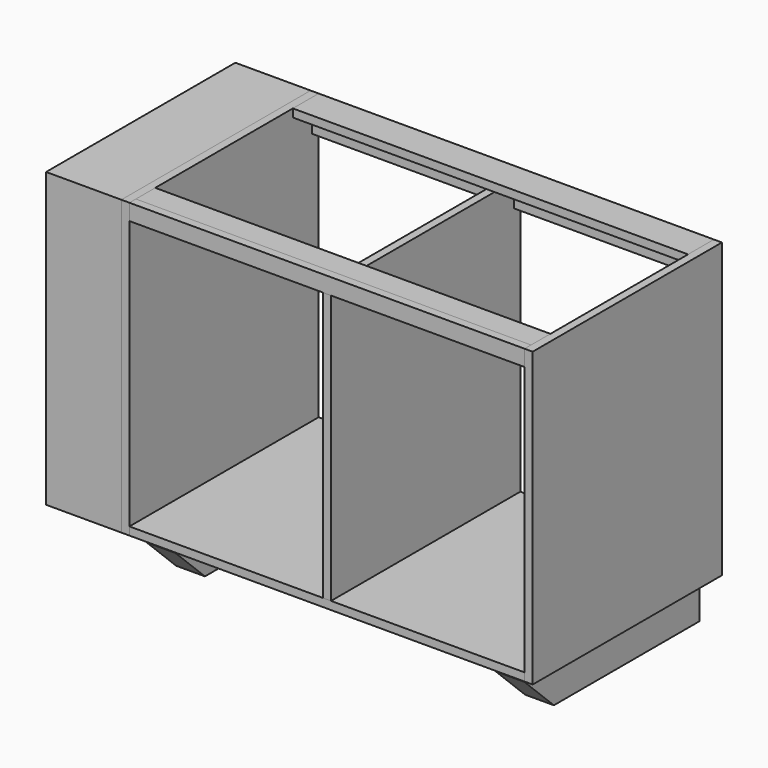
from build123d import *

# Parameters (mm, degrees)
F1_DEPTH  = 558.8
F2_DEPTH  = 558.8
F0_W      = 19.05
F0_H      = 654.05
F4_DEPTH  = 558.8
F6_DEPTH  = 933.45
F5_W      = 57.15
F5_H      = 19.05
F7_DEPTH  = 933.45
F5_W_2    = 19.05
F5_H_2    = 57.15
F8_W      = 520.7
F8_H      = 38.1
F8_H_2    = 16.0259231925
F9_DEPTH  = 177.8
F10_W     = 746.152639389
F10_H     = 78.0197512358
F11_DEPTH = 25.4
F12_DEPTH = 101.6
F14_DEPTH = 101.6


with BuildPart() as f1:
    # F0 (on Front) → F1 (new body)
    with BuildSketch(Plane.XZ):
        Polygon((-466.725, 346.075), (-485.775, 346.075), (-485.775, -346.075), (-466.725, -346.075), (-466.725, -327.025), (-466.725, 327.025), align=None)
    extrude(amount=F1_DEPTH)


with BuildPart() as f2:
    # F0 (on Front) → F2 (new body)
    with BuildSketch(Plane.XZ):
        Polygon((-466.725, -327.025), (-466.725, -346.075), (466.725, -346.075), (466.725, -327.025), (9.525, -327.025), (-9.525, -327.025), align=None)
    extrude(amount=F2_DEPTH)



with BuildPart() as f3_1:
    # F3: instance of F1
    add(f1.part.mirror(Plane.YZ))


with BuildPart() as f4:
    # F0 (on Front) → F4 (new body)
    with BuildSketch(Plane.XZ):
        Rectangle(F0_W, F0_H)
    extrude(amount=F4_DEPTH)


with BuildPart() as f6:
    # F5 (on face) → F6 (new body, through all)
    with BuildSketch(Plane.YZ.offset(-466.725)):
        Polygon((-539.75, 346.075), (-558.8, 346.075), (-558.8, 307.975), (-539.75, 307.975), (-539.75, 327.025), align=None)
    extrude(amount=F6_DEPTH)


with BuildPart() as f7:
    # F5 (on face) → F7 (new body, through all)
    with BuildSketch(Plane.YZ.offset(-466.725)):
        with Locations((-511.175, 336.55)):
            Rectangle(F5_W, F5_H)
    extrude(amount=F7_DEPTH)


with BuildPart() as f7b:
    # F5 (on face) → F7, piece 2 (new body, through all)
    with BuildSketch(Plane.YZ.offset(-466.725)):
        Polygon((0, 346.075), (-76.2, 346.075), (-76.2, 327.025), (-19.05, 327.025), (0, 327.025), align=None)
        with Locations((-9.525, 298.45)):
            Rectangle(F5_W_2, F5_H_2)
    extrude(amount=F7_DEPTH)


with BuildPart() as f9:
    # F8 (on face) → F9 (new body)
    with BuildSketch(Plane(origin=(-485.775, 0, 0), x_dir=(0, -1, 0), z_dir=(-1, 0, 0))):
        Polygon((558.8, 346.075), (539.75, 346.075), (539.75, 307.975), (539.75, 125.404715538), (539.75, 109.3787923455), (539.75, -346.075), (558.8, -346.075), align=None)
        with Locations((279.4, 327.025)):
            Rectangle(F8_W, F8_H)
        with Locations((279.4, 117.3917539418)):
            Rectangle(F8_W, F8_H_2)
        Polygon((19.05, 346.075), (0, 346.075), (0, -346.075), (19.05, -346.075), (19.05, 109.3787923455), (19.05, 125.404715538), (19.05, 307.975), align=None)
    extrude(amount=F9_DEPTH)


with BuildPart() as f11:
    # F10 (on face) → F11 (new body)
    with BuildSketch(Plane(origin=(0, 0, -346.075), x_dir=(1, 0, 0), z_dir=(0, 0, -1))):
        with Locations((-4.9648880959, 60.9446624294)):
            Rectangle(F10_W, F10_H)
    extrude(amount=F11_DEPTH)


with BuildPart() as f12:
    # F10 (on face) → F12 (new body)
    with BuildSketch(Plane(origin=(0, 0, -346.075), x_dir=(1, 0, 0), z_dir=(0, 0, -1))):
        Polygon((-378.0412077904, 534.028172493), (-446.1311995983, 534.028172493), (-446.1311995983, 16.260612756), (-378.0412077904, 16.260612756), (-378.0412077904, 21.9347868115), (-378.0412077904, 99.9545380473), align=None)
    extrude(amount=F12_DEPTH)

    # F13 (on face) → F14 (cut)
    with BuildSketch(Plane.YZ.offset(-378.0412077904)):
        Polygon((-446.6676414013, -447.675), (-534.028172493, -363.4320497513), (-534.028172493, -447.675), align=None)
    extrude(amount=-F14_DEPTH, mode=Mode.SUBTRACT)


with BuildPart() as f2_1:
    add(f2.part)

    add(f12.part)  # F15 merges F12
    # F15: F12 across plane
    add(f12.part.mirror(Plane.YZ))


solid = Compound([f1.part, f3_1.part, f4.part, f6.part, f7.part, f7b.part, f9.part, f11.part, f2_1.part])
